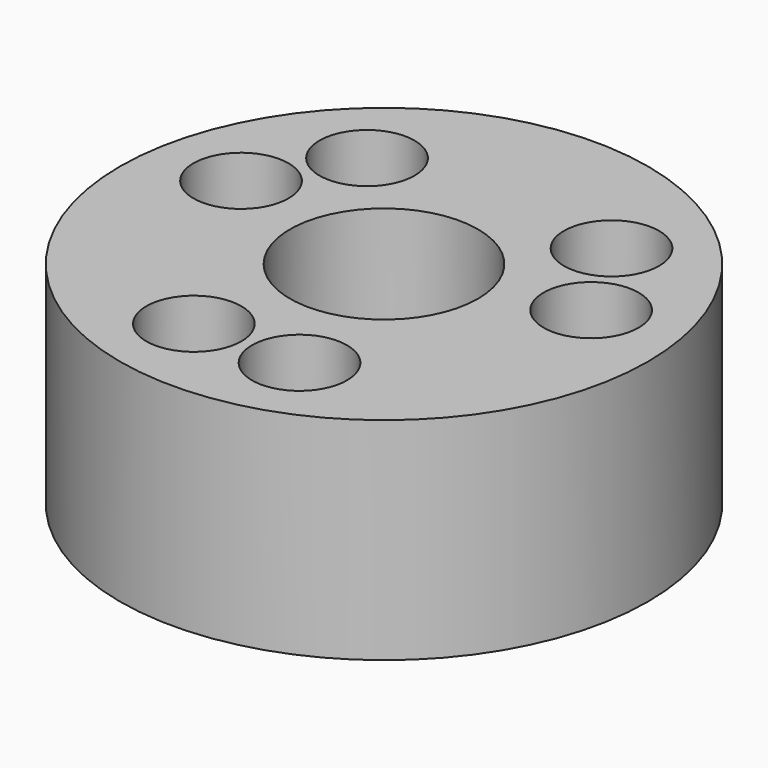
from build123d import *

# Parameters (mm, degrees)
F0_R     = 12.5
F0_R_2   = 2.25
F0_R_3   = 4.45
F1_DEPTH = 10


with BuildPart() as f1:
    # F0 (on Top) → F1 (new body)
    with BuildSketch(Plane.XY):
        Circle(F0_R)
        with Locations((-2.5, -8.124038)):
            Circle(F0_R_2, mode=Mode.SUBTRACT)
        with Locations((2.5, -8.124038)):
            Circle(F0_R_2, mode=Mode.SUBTRACT)
        with Locations((-8.285624, 1.896956)):
            Circle(F0_R_2, mode=Mode.SUBTRACT)
        with Locations((-5.785624, 6.227083)):
            Circle(F0_R_2, mode=Mode.SUBTRACT)
        Circle(F0_R_3, mode=Mode.SUBTRACT)
        with Locations((5.785624, 6.227083)):
            Circle(F0_R_2, mode=Mode.SUBTRACT)
        with Locations((8.285624, 1.896956)):
            Circle(F0_R_2, mode=Mode.SUBTRACT)
    extrude(amount=F1_DEPTH)


solid = f1.part
